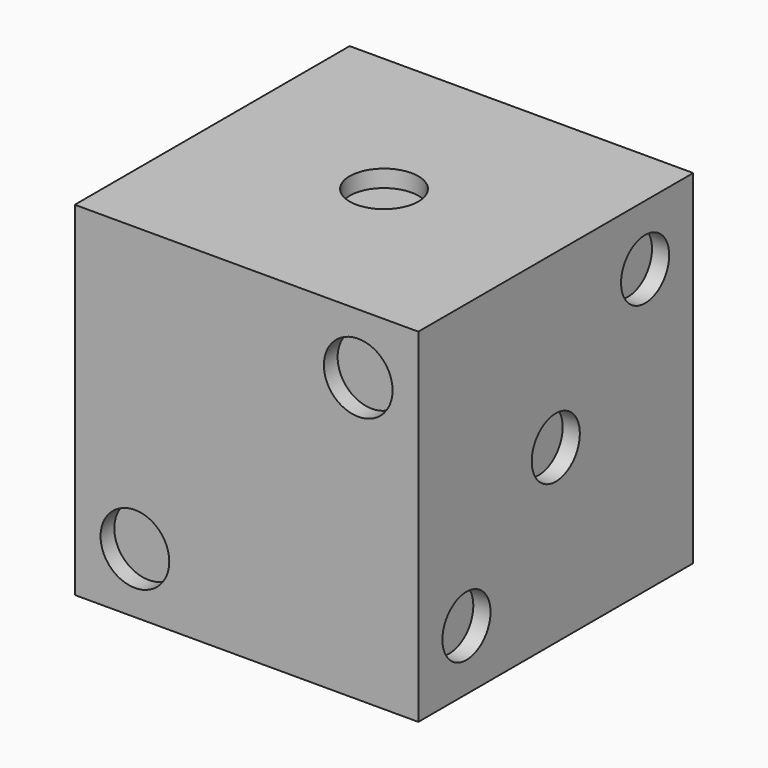
from build123d import *

# Parameters (mm, degrees)
F0_W      = 127
F0_H      = 127
F1_DEPTH  = 127
F2_R      = 12.7
F3_DEPTH  = 6.35
F4_R      = 12.7
F5_DEPTH  = 6.35
F6_R      = 11.1125
F7_DEPTH  = 6.35
F8_R      = 12.7
F9_DEPTH  = 6.35
F10_R     = 12.7
F10_R_2   = 12.703885
F11_DEPTH = 6.35
F12_R     = 12.7
F13_DEPTH = 6.35


with BuildPart() as f1:
    # F0 (on Top) → F1 (new body)
    with BuildSketch(Plane.XY):
        Rectangle(F0_W, F0_H)
    extrude(amount=F1_DEPTH)

    # F2 (on face) → F3 (cut)
    with BuildSketch(Plane.XY.offset(127)):
        Circle(F2_R)
    extrude(amount=-F3_DEPTH, mode=Mode.SUBTRACT)

    # F4 (on face) → F5 (cut)
    with BuildSketch(Plane.XZ.offset(63.5)):
        with Locations((-41.275, 22.225)):
            Circle(F4_R)
        with Locations((41.275, 104.775)):
            Circle(F4_R)
    extrude(amount=-F5_DEPTH, mode=Mode.SUBTRACT)

    # F6 (on face) → F7 (cut)
    with BuildSketch(Plane.YZ.offset(63.5)):
        with Locations((-41.275, 22.225)):
            Circle(F6_R)
        with Locations((41.275, 104.775)):
            Circle(F6_R)
        with Locations((0, 63.5)):
            Circle(F6_R)
    extrude(amount=-F7_DEPTH, mode=Mode.SUBTRACT)

    # F8 (on face) → F9 (cut)
    with BuildSketch(Plane(origin=(-63.5, 0, 0), x_dir=(0, -1, 0), z_dir=(-1, 0, 0))):
        with Locations((-41.275, 22.225)):
            Circle(F8_R)
        with Locations((41.275, 22.225)):
            Circle(F8_R)
        with Locations((41.275, 104.775)):
            Circle(F8_R)
        with Locations((-41.275, 104.775)):
            Circle(F8_R)
    extrude(amount=-F9_DEPTH, mode=Mode.SUBTRACT)

    # F10 (on face) → F11 (cut)
    with BuildSketch(Plane(origin=(0, 63.5, 0), x_dir=(-1, 0, 0), z_dir=(0, 1, 0))):
        with Locations((-41.275, 104.775)):
            Circle(F10_R)
        with Locations((41.275, 104.775)):
            Circle(F10_R)
        with Locations((41.275, 22.225)):
            Circle(F10_R_2)
        with Locations((-37.138888, 26.361112)):
            Circle(F10_R)
        with Locations((0, 63.5)):
            Circle(F10_R)
    extrude(amount=-F11_DEPTH, mode=Mode.SUBTRACT)

    # F12 (on face) → F13 (cut)
    with BuildSketch(Plane(origin=(0, 0, 0), x_dir=(1, 0, 0), z_dir=(0, 0, -1))):
        with Locations((-41.275, 41.275)):
            Circle(F12_R)
        with Locations((41.275, 41.275)):
            Circle(F12_R)
        with Locations((-41.275, 0)):
            Circle(F12_R)
        with Locations((-41.275, -41.275)):
            Circle(F12_R)
        with Locations((41.275, 0)):
            Circle(F12_R)
        with Locations((41.275, -41.275)):
            Circle(F12_R)
    extrude(amount=-F13_DEPTH, mode=Mode.SUBTRACT)


solid = f1.part
